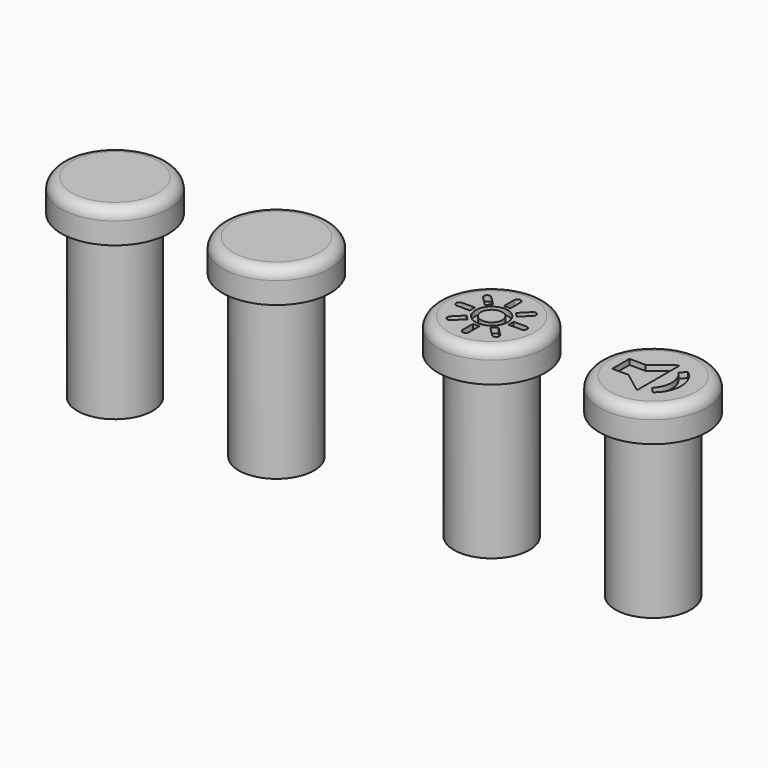
from build123d import *

# Parameters (mm, degrees)
SKETCH_R           = 3.5
PAD_DEPTH          = 15
SKETCH001_R        = 1.8
POCKET_DEPTH       = 3
SKETCH002_R        = 5
PAD001_DEPTH       = 3
FILLET_R           = 1
POCKET003_DEPTH    = 0.5
SKETCH003_R        = 1.5
SKETCH003_R_2      = 1
POCKET001_DEPTH    = 0.5
POCKET002_DEPTH    = 0.5
POLARPATTERN_COUNT = 8


with BuildPart() as obj1:
    # Sketch → Pad (new body)
    with BuildSketch(Plane.XY):
        Circle(SKETCH_R)
    extrude(amount=PAD_DEPTH)

    # Sketch001 (on Face2 of Pad) → Pocket (cut)
    with BuildSketch(Plane(origin=(0, 0, 0), x_dir=(1, 0, 0), z_dir=(0, 0, -1))):
        Circle(SKETCH001_R)
    extrude(amount=-POCKET_DEPTH, mode=Mode.SUBTRACT)

    # Sketch002 (on Face3 of Pocket) → Pad001 (join)
    with BuildSketch(Plane.XY.offset(15)):
        Circle(SKETCH002_R)
    extrude(amount=PAD001_DEPTH)

    # Fillet
    fillet_edges = [obj1.edges().sort_by_distance(p)[0] for p in [
        (-5, 0, 18),
    ]]
    fillet(fillet_edges, radius=FILLET_R)


with BuildPart() as obj2:
    # Body001 base: copy of obj1
    add(obj1.part)

    # Sketch005 (on Face4 of Clone) → Pocket003 (cut)
    with BuildSketch(Plane.XY.offset(18)):
        Polygon((-3, 1), (-3, -1), (-1.5, -1), (0.5, -2.5), (0.5, 2.5), (-1.5, 1), align=None)
        with BuildLine():
            ThreePointArc((1.608436, -2.050571), (2.606129, 0), (1.608436, 2.050571))
            Line((1.608436, 2.050571), (1.129955, 1.542421))
            ThreePointArc((1.129955, -1.542421), (1.744062, 0), (1.129955, 1.542421))
            Line((1.608436, -2.050571), (1.129955, -1.542421))
        make_face()
    extrude(amount=-POCKET003_DEPTH, mode=Mode.SUBTRACT)


with BuildPart() as obj2_1:
    # Body001 placement: moved
    add(obj2.part.moved(Location((15, 0, 0))))


with BuildPart() as obj3:
    # Body002 base: copy of obj1
    add(obj1.part)

    # Sketch003 (on Face4 of Clone001) → Pocket001 (cut)
    with BuildSketch(Plane.XY.offset(18)):
        Circle(SKETCH003_R)
        Circle(SKETCH003_R_2, mode=Mode.SUBTRACT)
    extrude(amount=-POCKET001_DEPTH, mode=Mode.SUBTRACT)

    # Sketch004 (on Face4 of Clone001) → Pocket002 (cut)
    with BuildSketch(Plane.XY.offset(18)):
        with BuildLine():
            Line((1.8, 0.3), (1.8, -0.3))
            Line((1.8, -0.3), (3, -0.3))
            ThreePointArc((3, -0.3), (3.3, 0), (3, 0.3))
            Line((1.8, 0.3), (3, 0.3))
        make_face()
    pocket002 = extrude(amount=-POCKET002_DEPTH, mode=Mode.SUBTRACT)

    # PolarPattern: Pocket002 ×8 about axis
    polarpattern_axis = Axis((0, 0, 0), (0, 0, 1))
    for i in range(1, POLARPATTERN_COUNT):
        add(pocket002.rotate(polarpattern_axis, i * 360 / POLARPATTERN_COUNT), mode=Mode.SUBTRACT)


with BuildPart() as obj4:
    # Body003 base: copy of obj1
    add(obj1.part)


with BuildPart() as obj4_1:
    # Body003 placement: moved
    add(obj4.part.moved(Location((-20, 0, 0))))


with BuildPart() as obj5:
    # Body004 base: copy of obj1
    add(obj1.part)


with BuildPart() as obj5_1:
    # Body004 placement: moved
    add(obj5.part.moved(Location((-35, 0, 0))))


solid = Compound([obj2_1.part, obj3.part, obj4_1.part, obj5_1.part])
